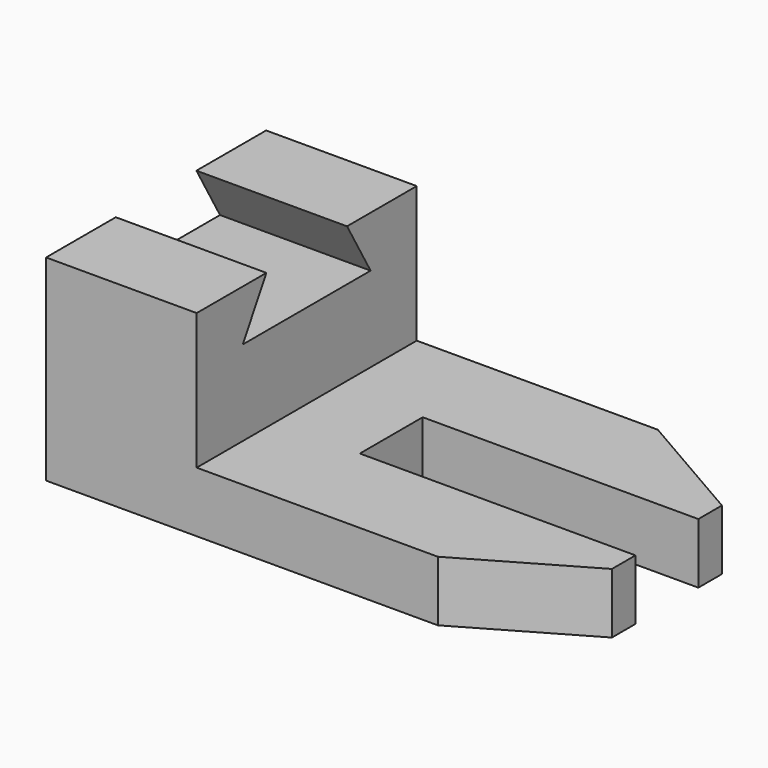
from build123d import *

# Parameters (mm, degrees)
F1_DEPTH = 70
F3_DEPTH = 38.3278513458
F4_W     = 70.1527081109
F4_H     = 20
F5_DEPTH = 15.3706480632
F8_DEPTH = 15.3706480632


with BuildPart() as f1:
    # F0 (on Front) → F1 (new body)
    with BuildSketch(Plane.XZ):
        Polygon((-13.0350217989, 34.6303519368), (-51.3618731447, 34.6303519368), (-51.3618731447, -15.3696480632), (78.6381268553, -15.3696480632), (78.6381268553, 0), (-13.0350217989, 0), align=None)
    extrude(amount=F1_DEPTH)

    # F2 (on face) → F3 (cut, through all)
    with BuildSketch(Plane.YZ.offset(-13.0350217989)):
        Polygon((-22.1706290543, 34.6303519368), (-47.8293709457, 34.6303519368), (-55.3293709457, 21.6399708801), (-35, 21.6399708801), (-14.6706290543, 21.6399708801), align=None)
    extrude(amount=-F3_DEPTH, mode=Mode.SUBTRACT)

    # F4 (on face) → F5 (cut, through all)
    with BuildSketch(Plane.XY):
        with Locations((43.5617727999, -35)):
            Rectangle(F4_W, F4_H)
    extrude(amount=-F5_DEPTH, mode=Mode.SUBTRACT)

    # F7 (on face) → F8 (cut, through all)
    with BuildSketch(Plane.XY):
        Polygon((78.6381268553, -52.5), (48.3272377229, -70), (78.6381268553, -70), align=None)
        Polygon((48.3272377229, 0), (78.6381268553, -17.5), (78.6381268553, 0), align=None)
    extrude(amount=-F8_DEPTH, mode=Mode.SUBTRACT)


solid = f1.part
